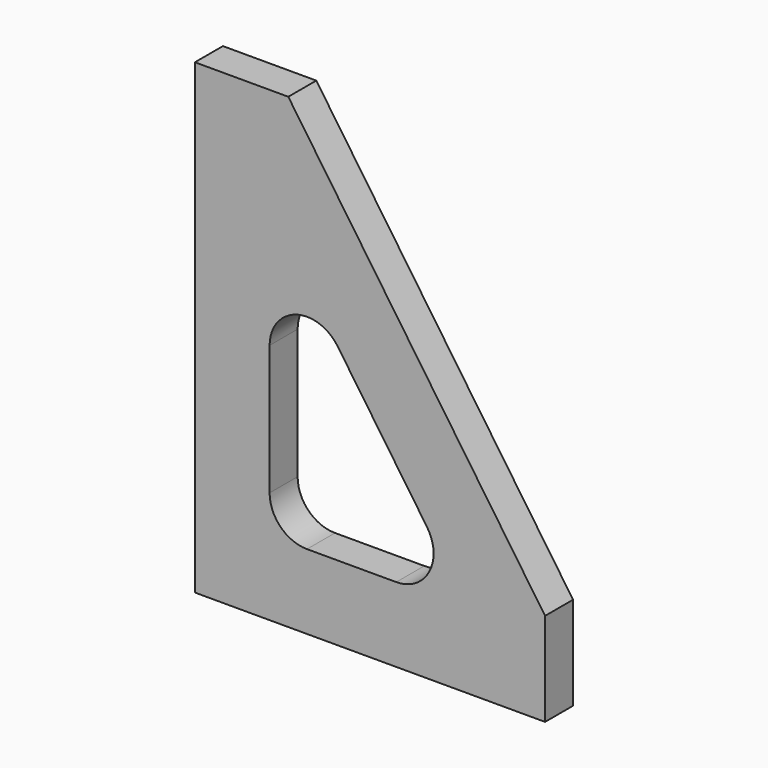
from build123d import *

# Parameters (mm, degrees)
F1_DEPTH = 9.525


with BuildPart() as f1:
    # F0 (on Front) → F1 (new body)
    with BuildSketch(Plane.XZ):
        Polygon((-56.095374, 72.879736), (-81.495374, 72.883495), (-81.495374, -54.116505), (13.754626, -54.116505), (13.754626, -28.716505), align=None)
        with BuildLine():
            ThreePointArc((-61.175374, 11.690947), (-54.029042, 21.3937), (-42.643207, 17.447025))
            Line((-42.643207, 17.447025), (-18.354685, -17.880427))
            ThreePointArc((-18.354685, -17.880427), (-17.734985, -28.366402), (-26.726852, -33.796505))
            Line((-26.726852, -33.796505), (-51.015374, -33.796505))
            ThreePointArc((-51.015374, -33.796505), (-58.199579, -30.820709), (-61.175374, -23.636505))
            Line((-61.175374, -23.636505), (-61.175374, 11.690947))
        make_face(mode=Mode.SUBTRACT)
    extrude(amount=F1_DEPTH)


solid = f1.part
